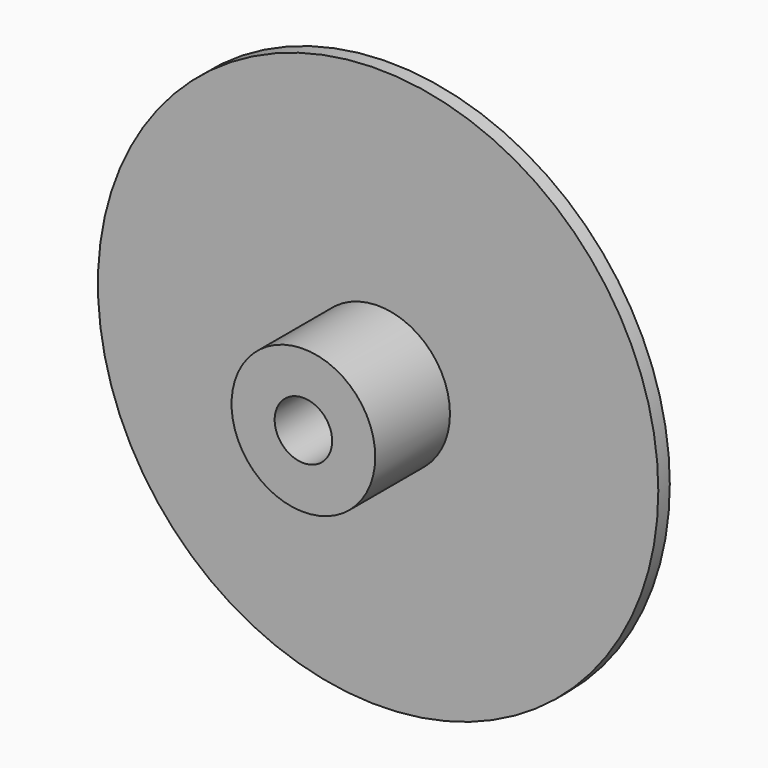
from build123d import *

# Parameters (mm, degrees)
F0_R     = 31.75
F0_R_2   = 12.7
F1_DEPTH = 44.45
F2_R     = 127
F3_DEPTH = 3.175
F4_R     = 12.7
F5_DEPTH = 38.1
F6_R     = 127
F6_R_2   = 123.825
F7_DEPTH = 12.7


with BuildPart() as f1:
    # F0 (on Front) → F1 (new body)
    with BuildSketch(Plane.XZ):
        Circle(F0_R)
        Circle(F0_R_2, mode=Mode.SUBTRACT)
    extrude(amount=F1_DEPTH)

    # F2 (on Front) → F3 (join, symmetric)
    with BuildSketch(Plane.XZ):
        Circle(F2_R)
    extrude(amount=F3_DEPTH, both=True)

    # F4 (on face) → F5 (cut, symmetric)
    with BuildSketch(Plane.XZ.offset(3.175)):
        Circle(F4_R)
    extrude(amount=F5_DEPTH, both=True, mode=Mode.SUBTRACT)

    # F6 (on face) → F7 (cut, symmetric)
    with BuildSketch(Plane.XZ.offset(3.175)):
        Circle(F6_R)
        Circle(F6_R_2, mode=Mode.SUBTRACT)
    extrude(amount=F7_DEPTH, both=True, mode=Mode.SUBTRACT)


solid = f1.part
